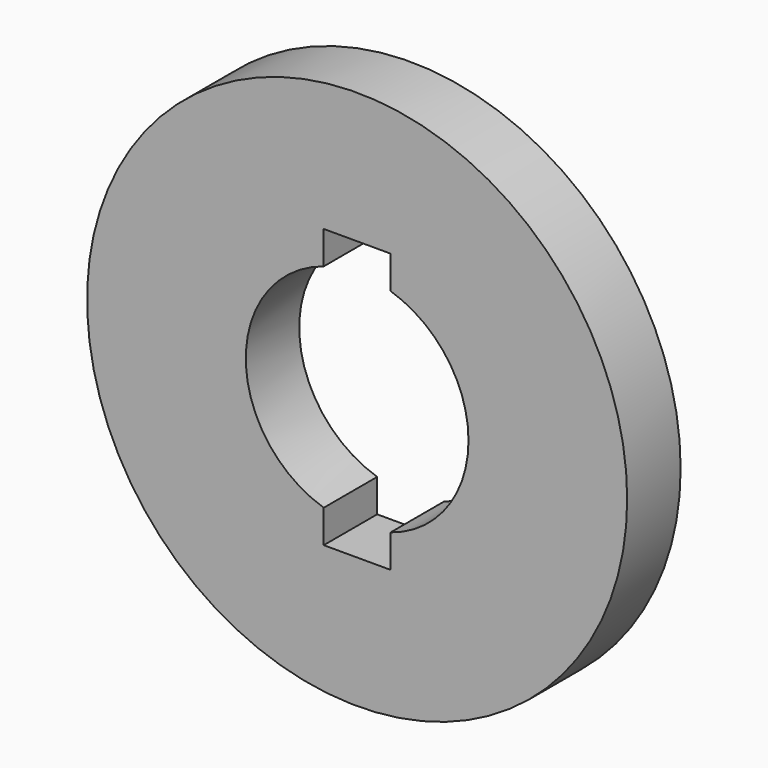
from build123d import *

# Parameters (mm, degrees)
F0_R     = 24.25
F1_DEPTH = 6


with BuildPart() as f1:
    # F0 (on Front) → F1 (new body)
    with BuildSketch(Plane.XZ):
        Circle(F0_R)
        with BuildLine():
            ThreePointArc((3, 9.539392), (8.062258, 5.91608), (10, 0))
            ThreePointArc((10, 0), (8.062258, -5.91608), (3, -9.539392))
            Line((3, -9.539392), (3, -12.5))
            Line((3, -12.5), (-3, -12.5))
            Line((-3, -12.5), (-3, -9.539392))
            ThreePointArc((-3, -9.539392), (-10, 0), (-3, 9.539392))
            Line((-3, 9.539392), (-3, 12.5))
            Line((-3, 12.5), (3, 12.5))
            Line((3, 12.5), (3, 9.539392))
        make_face(mode=Mode.SUBTRACT)
    extrude(amount=F1_DEPTH)


solid = f1.part
